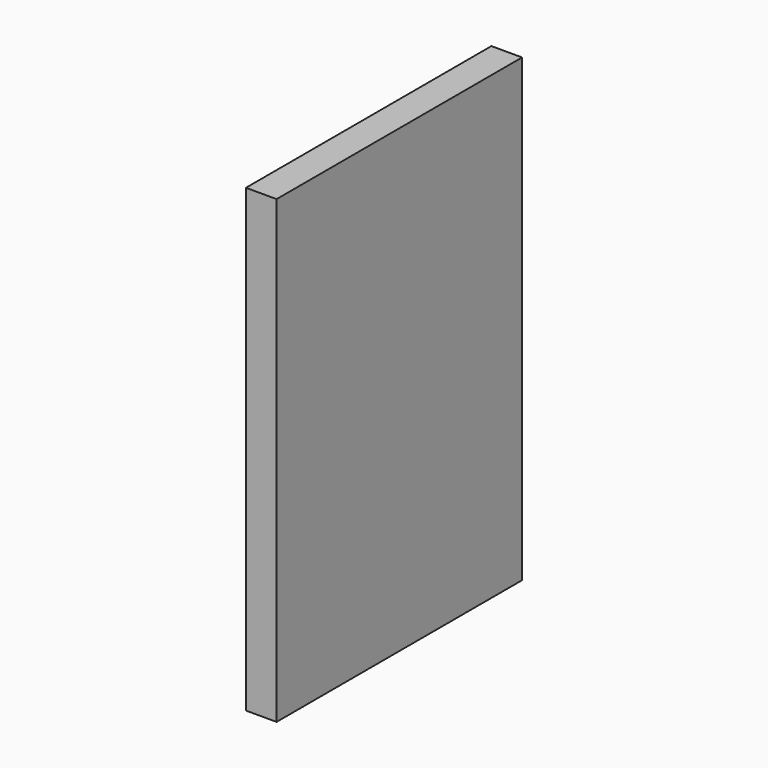
from build123d import *

# Parameters (mm, degrees)
F1_DEPTH = 2
F2_DEPTH = 5
F3_DEPTH = 10


with BuildPart() as f1:
    # F0 (on Right) → F1 (new body)
    with BuildSketch(Plane.YZ):
        with BuildLine():
            Line((-33.6863736738, 16.3327330157), (-41.9186067209, 24.5649660628))
            Line((-41.9186067209, 24.5649660628), (-41.9186067209, 4.5649660628))
            Line((-41.9186067209, 4.5649660628), (-33.6863736738, 12.7971991098))
            ThreePointArc((-33.6863736738, 12.7971991098), (-34.4186067209, 14.5649660628), (-33.6863736738, 16.3327330157))
        make_face()
        with BuildLine():
            Line((-21.9186067209, 24.5649660628), (-41.9186067209, 24.5649660628))
            Line((-41.9186067209, 24.5649660628), (-33.6863736738, 16.3327330157))
            ThreePointArc((-33.6863736738, 16.3327330157), (-31.9186067209, 17.0649660628), (-30.1508397679, 16.3327330157))
            Line((-30.1508397679, 16.3327330157), (-21.9186067209, 24.5649660628))
        make_face()
        with BuildLine():
            Line((-21.9186067209, 4.5649660628), (-21.9186067209, 24.5649660628))
            Line((-21.9186067209, 24.5649660628), (-30.1508397679, 16.3327330157))
            ThreePointArc((-30.1508397679, 16.3327330157), (-29.6089078896, 15.5216746437), (-29.4186067209, 14.5649660628))
            ThreePointArc((-29.4186067209, 14.5649660628), (-29.6089078896, 13.6082574819), (-30.1508397679, 12.7971991098))
            Line((-30.1508397679, 12.7971991098), (-21.9186067209, 4.5649660628))
        make_face()
        with BuildLine():
            Line((-33.6863736738, 12.7971991098), (-41.9186067209, 4.5649660628))
            Line((-41.9186067209, 4.5649660628), (-21.9186067209, 4.5649660628))
            Line((-21.9186067209, 4.5649660628), (-30.1508397679, 12.7971991098))
            ThreePointArc((-30.1508397679, 12.7971991098), (-31.9186067209, 12.0649660628), (-33.6863736738, 12.7971991098))
        make_face()
        with BuildLine():
            Line((-21.9186067209, 24.5649660628), (-41.9186067209, 24.5649660628))
            Line((-41.9186067209, 24.5649660628), (-33.6863736738, 16.3327330157))
            ThreePointArc((-33.6863736738, 16.3327330157), (-31.9186067209, 17.0649660628), (-30.1508397679, 16.3327330157))
            Line((-30.1508397679, 16.3327330157), (-21.9186067209, 24.5649660628))
        make_face()
        with BuildLine():
            Line((-31.9186067209, 14.5649660628), (-33.6863736738, 16.3327330157))
            ThreePointArc((-33.6863736738, 16.3327330157), (-34.4186067209, 14.5649660628), (-33.6863736738, 12.7971991098))
            Line((-33.6863736738, 12.7971991098), (-31.9186067209, 14.5649660628))
        make_face()
        with BuildLine():
            ThreePointArc((-30.1508397679, 16.3327330157), (-31.9186067209, 17.0649660628), (-33.6863736738, 16.3327330157))
            Line((-33.6863736738, 16.3327330157), (-31.9186067209, 14.5649660628))
            Line((-31.9186067209, 14.5649660628), (-30.1508397679, 16.3327330157))
        make_face()
        with BuildLine():
            ThreePointArc((-29.4186067209, 14.5649660628), (-29.6089078896, 15.5216746437), (-30.1508397679, 16.3327330157))
            Line((-30.1508397679, 16.3327330157), (-31.9186067209, 14.5649660628))
            Line((-31.9186067209, 14.5649660628), (-30.1508397679, 12.7971991098))
            ThreePointArc((-30.1508397679, 12.7971991098), (-29.6089078896, 13.6082574819), (-29.4186067209, 14.5649660628))
        make_face()
        with BuildLine():
            Line((-31.9186067209, 14.5649660628), (-33.6863736738, 12.7971991098))
            ThreePointArc((-33.6863736738, 12.7971991098), (-31.9186067209, 12.0649660628), (-30.1508397679, 12.7971991098))
            Line((-30.1508397679, 12.7971991098), (-31.9186067209, 14.5649660628))
        make_face()
    extrude(amount=F1_DEPTH)

    # F0 (on Right) → F2 (join)
    with BuildSketch(Plane.YZ):
        with BuildLine():
            ThreePointArc((-29.4186067209, 14.5649660628), (-29.6089078896, 15.5216746437), (-30.1508397679, 16.3327330157))
            Line((-30.1508397679, 16.3327330157), (-31.9186067209, 14.5649660628))
            Line((-31.9186067209, 14.5649660628), (-30.1508397679, 12.7971991098))
            ThreePointArc((-30.1508397679, 12.7971991098), (-29.6089078896, 13.6082574819), (-29.4186067209, 14.5649660628))
        make_face()
        with BuildLine():
            ThreePointArc((-30.1508397679, 16.3327330157), (-31.9186067209, 17.0649660628), (-33.6863736738, 16.3327330157))
            Line((-33.6863736738, 16.3327330157), (-31.9186067209, 14.5649660628))
            Line((-31.9186067209, 14.5649660628), (-30.1508397679, 16.3327330157))
        make_face()
        with BuildLine():
            Line((-31.9186067209, 14.5649660628), (-33.6863736738, 16.3327330157))
            ThreePointArc((-33.6863736738, 16.3327330157), (-34.4186067209, 14.5649660628), (-33.6863736738, 12.7971991098))
            Line((-33.6863736738, 12.7971991098), (-31.9186067209, 14.5649660628))
        make_face()
        with BuildLine():
            Line((-31.9186067209, 14.5649660628), (-33.6863736738, 12.7971991098))
            ThreePointArc((-33.6863736738, 12.7971991098), (-31.9186067209, 12.0649660628), (-30.1508397679, 12.7971991098))
            Line((-30.1508397679, 12.7971991098), (-31.9186067209, 14.5649660628))
        make_face()
    extrude(amount=-F2_DEPTH)

    # F3 (add): a face of the model
    f3_faces = [f1.faces().sort_by_distance(p)[0] for p in [
        (1, -31.9186067209, 24.5649660628),
    ]]
    extrude(f3_faces, amount=F3_DEPTH)


solid = f1.part
